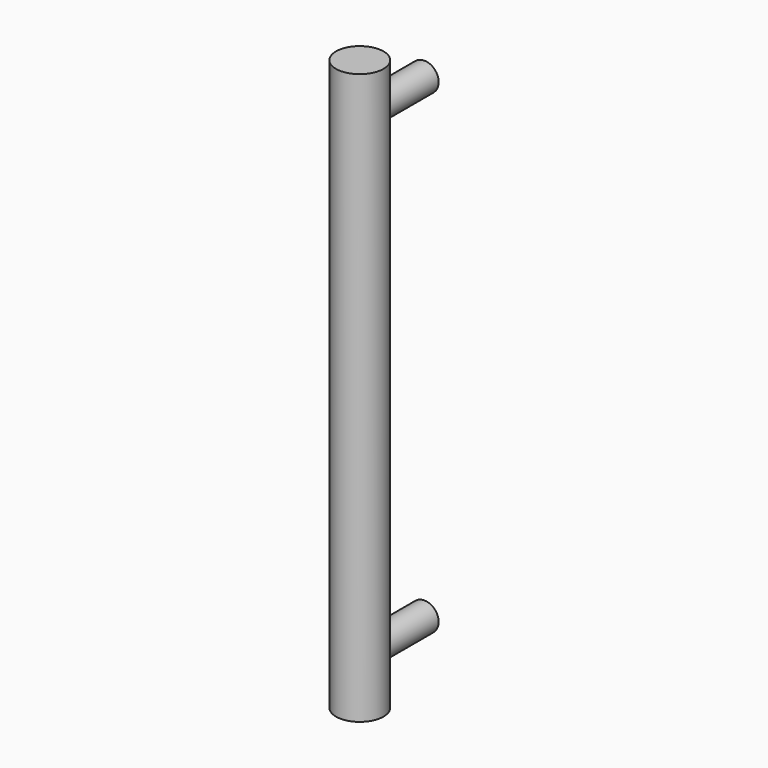
from build123d import *

# Parameters (mm, degrees)
SKETCH1248_R           = 5
OBJ1_DEPTH = 60
CLONE2D015_R           = 3
OBJ2_DEPTH = 17
SKETCH1249_R           = 3
OBJ3 = 17


with BuildPart() as obj1:
    # Sketch1248 (on Sketch) → obj1 (new body, symmetric)
    with BuildSketch(Plane(origin=(471.25, -267, 0), x_dir=(-1, 0, 0), z_dir=(0, 0, 1))):
        Circle(SKETCH1248_R)
    extrude(amount=OBJ1_DEPTH, both=True)


with BuildPart() as obj2:
    # Clone2D015 (on Sketch) → obj2 (new body)
    with BuildSketch(Plane(origin=(471.25, -250, 50), x_dir=(0, 0, 1), z_dir=(0, -1, 0))):
        Circle(CLONE2D015_R)
    extrude(amount=OBJ2_DEPTH)


with BuildPart() as clone002:
    with BuildSketch(Plane(origin=(471.25, -250, -50), x_dir=(0, 0, 1), z_dir=(0, -1, 0))):
        Circle(SKETCH1249_R)
    extrude(amount=OBJ3)

    # Fusion008: union obj1, obj2
    add(obj1.part)
    add(obj2.part)


with BuildPart() as clone002_1:
    # Clone002 placement: moved
    add(clone002.part.moved(Location((0, 0, 920))))


solid = clone002_1.part
